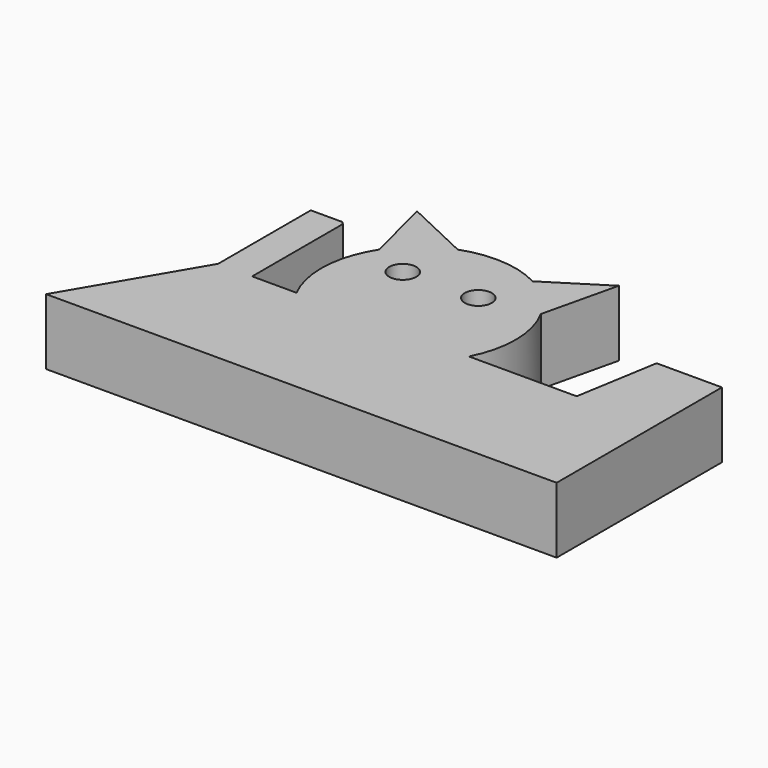
from build123d import *

# Parameters (mm, degrees)
F0_R     = 5.208425
F0_R_2   = 5.19056
F1_DEPTH = 25.4


with BuildPart() as f1:
    # F0 (on Top) → F1 (new body)
    with BuildSketch(Plane.XY):
        with BuildLine():
            Line((-81.381604, 55.626001), (-74.654538, 29.011496))
            ThreePointArc((-74.654538, 29.011496), (-80.618498, 10.506301), (-76.482114, -8.491103))
            Line((-76.482114, -8.491103), (-93.5736, -8.491103))
            Line((-93.5736, -8.491103), (-93.5736, 35.204399))
            Line((-93.5736, 35.204399), (-94.488002, 36.118798))
            Line((-94.488002, 36.118798), (-106.680003, 36.118798))
            Line((-106.680003, 36.118798), (-106.680003, -8.491103))
            Line((-106.680003, -8.491103), (-134.721607, -56.2356))
            Line((-134.721607, -56.2356), (61.874397, -56.2356))
            Line((61.874397, -56.2356), (61.874397, 23.317199))
            Line((61.874397, 23.317199), (36.880802, 23.317199))
            Line((36.880802, 23.317199), (36.727491, 23.317199))
            Line((36.727491, 23.317199), (31.394403, -8.491103))
            Line((31.394403, -8.491103), (-10.081085, -8.491103))
            ThreePointArc((-10.081085, -8.491103), (-5.902864, 9.116501), (-10.484758, 26.623401))
            Line((-10.484758, 26.623401), (-3.657602, 55.626001))
            Line((-3.657602, 55.626001), (-25.71959, 41.685744))
            ThreePointArc((-25.71959, 41.685744), (-40.746905, 45.981971), (-56.217321, 43.758464))
            Line((-56.217321, 43.758464), (-81.381604, 55.626001))
        make_face()
        with Locations((-60.0456, 22.098001)):
            Circle(F0_R, mode=Mode.SUBTRACT)
        with Locations((-31.699203, 23.012402)):
            Circle(F0_R_2, mode=Mode.SUBTRACT)
    extrude(amount=F1_DEPTH)


solid = f1.part
